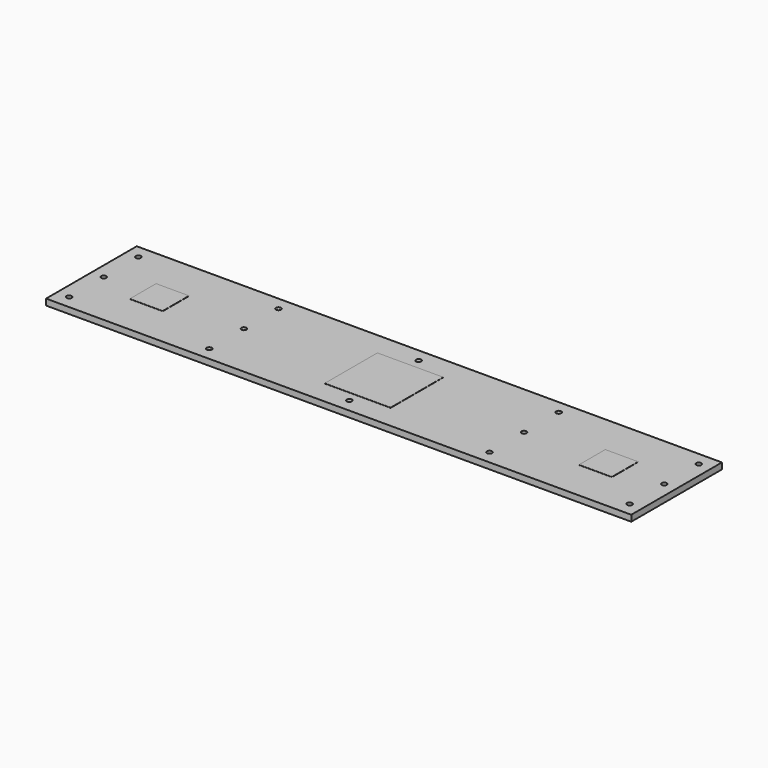
from build123d import *

# Parameters (mm, degrees)
F0_W     = 901.7
F0_H     = 174.625
F1_DEPTH = 4.7625
F3_D     = 7.9375
F4_W     = 101.6
F4_H     = 101.6
F4_W_2   = 50.8
F4_H_2   = 50.8
F5_DEPTH = 0.254


with BuildPart() as f1:
    # F0 (on Top) → F1 (new body, symmetric)
    with BuildSketch(Plane.XY):
        Rectangle(F0_W, F0_H)
    extrude(amount=F1_DEPTH, both=True)

    # F3 (through all)
    with Locations(Plane.XY.offset(4.7625)):
        with Locations((-215.9, 66.675), (-215.9, 0), (-215.9, -66.675), (-431.8, 66.675), (-431.8, 0), (-431.8, -66.675), (0, 66.675), (0, 0), (0, -66.675), (215.9, 66.675), (215.9, 0), (215.9, -66.675), (431.8, -66.675), (431.8, 0), (431.8, 66.675)):
            Hole(F3_D / 2)

    # F4 (on face) → F5 (join)
    with BuildSketch(Plane.XY.offset(4.7625)):
        Rectangle(F4_W, F4_H)
        with Locations((-346.075, 0)):
            Rectangle(F4_W_2, F4_H_2)
        with Locations((346.075, 0)):
            Rectangle(F4_W_2, F4_H_2)
    extrude(amount=F5_DEPTH)


solid = f1.part
